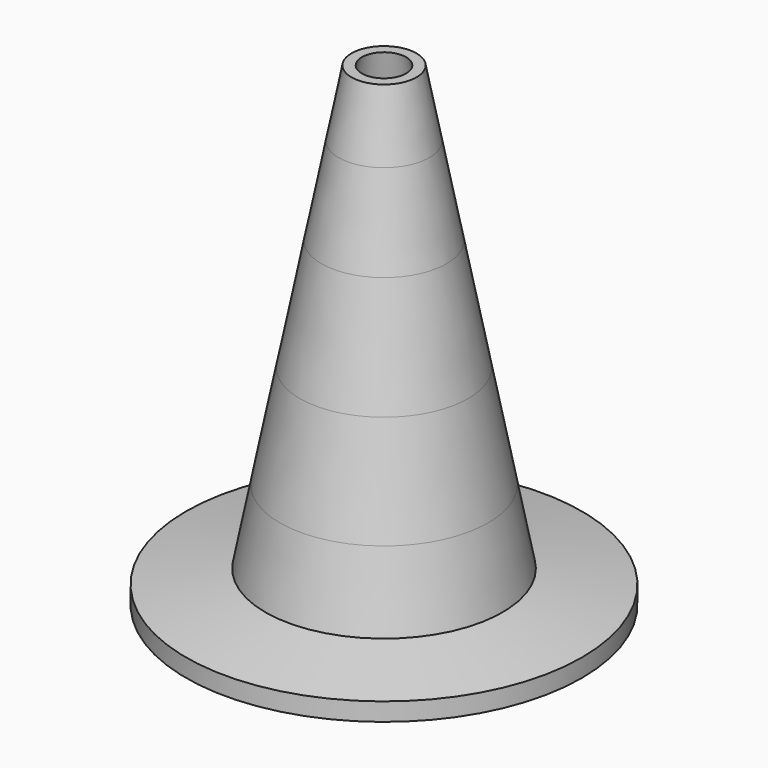
from build123d import *

# Parameters (mm, degrees)
F6_R     = 15
F7_DEPTH = 60.001
F7_TAPER = 11.5


with BuildPart() as f1:
    # F0 (on Front) → F1 (revolve)
    with BuildSketch(Plane.XZ):
        Polygon((-5.7397772641, 51.6), (0, 51.6), (0, 60), (-4.1069826674, 60), align=None)
    revolve(axis=Axis((0, 0, 30), (0, 0, -1)))


with BuildPart() as f2:
    # F0 (on Front) → F2 (revolve)
    with BuildSketch(Plane.XZ):
        Polygon((-7.8973986956, 40.5), (0, 40.5), (0, 51.6), (-5.7397772641, 51.6), align=None)
    revolve(axis=Axis((0, 0, 30), (0, 0, -1)))


with BuildPart() as f3:
    # F0 (on Front) → F3 (revolve)
    with BuildSketch(Plane.XZ):
        Polygon((-10.6381610544, 26.4), (0, 26.4), (0, 40.5), (-7.8973986956, 40.5), align=None)
    revolve(axis=Axis((0, 0, 30), (0, 0, -1)))


with BuildPart() as f4:
    # F0 (on Front) → F4 (revolve)
    with BuildSketch(Plane.XZ):
        Polygon((-13.1651050732, 13.4), (0, 13.4), (0, 26.4), (-10.6381610544, 26.4), align=None)
    revolve(axis=Axis((0, 0, 30), (0, 0, -1)))


with BuildPart() as f5:
    # F0 (on Front) → F5 (revolve)
    with BuildSketch(Plane.XZ):
        Polygon((-25, 0), (0, 0), (0, 13.4), (-13.1651050732, 13.4), (-14.9830954039, 4.0472505435), (-25, 2.281), align=None)
    revolve(axis=Axis((0, 0, 30), (0, 0, -1)))


with BuildPart() as f7_tool:
    # F6 (on face) → F7 (new body, through all)
    with BuildSketch(Plane(origin=(0, 0, 0), x_dir=(1, 0, 0), z_dir=(0, 0, -1))):
        Circle(F6_R)
    extrude(amount=-F7_DEPTH, taper=F7_TAPER)


with BuildPart() as f1_1:
    add(f1.part)

    # F7: cut by f7_tool
    add(f7_tool.part, mode=Mode.SUBTRACT)


with BuildPart() as f2_1:
    add(f2.part)

    # F7: cut by f7_tool
    add(f7_tool.part, mode=Mode.SUBTRACT)


with BuildPart() as f3_1:
    add(f3.part)

    # F7: cut by f7_tool
    add(f7_tool.part, mode=Mode.SUBTRACT)


with BuildPart() as f4_1:
    add(f4.part)

    # F7: cut by f7_tool
    add(f7_tool.part, mode=Mode.SUBTRACT)


with BuildPart() as f5_1:
    add(f5.part)

    # F7: cut by f7_tool
    add(f7_tool.part, mode=Mode.SUBTRACT)


solid = Compound([f1_1.part, f2_1.part, f3_1.part, f4_1.part, f5_1.part])
